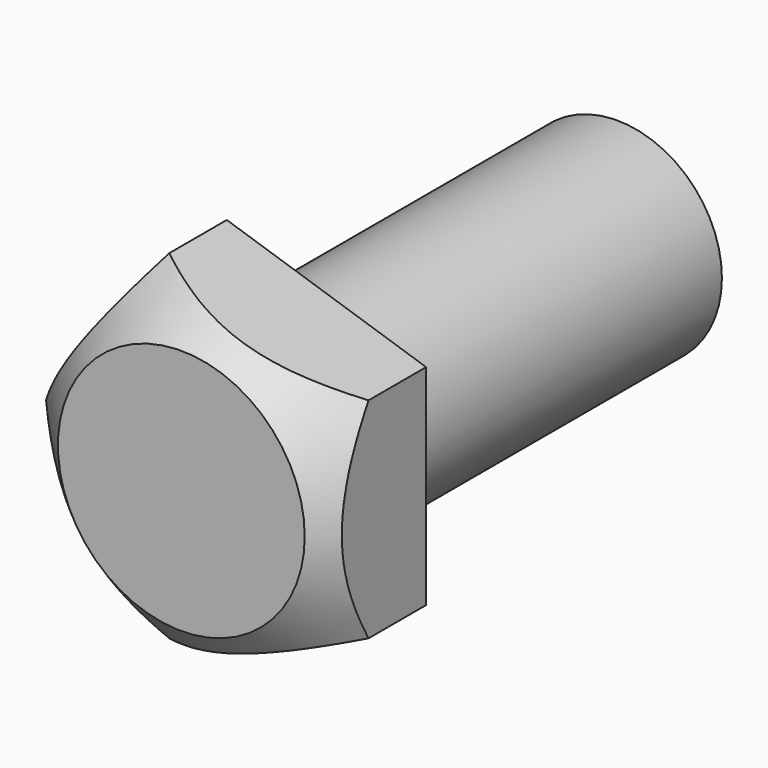
from build123d import *

# Parameters (mm, degrees)
F0_R     = 63.5
F1_DEPTH = 127
F3_DEPTH = 76.2


with BuildPart() as f1:
    # F0 (on Front) → F1 (new body, symmetric)
    with BuildSketch(Plane.XZ):
        Circle(F0_R)
    extrude(amount=F1_DEPTH, both=True)

    # F2 (on face) → F3 (join)
    with BuildSketch(Plane.XZ.offset(127)):
        Polygon((87.400252, -63.5), (87.400252, 63.5), (-33.383926, 102.745158), (-108.032653, 0), (-33.383926, -102.745158), align=None)
    extrude(amount=F3_DEPTH)

    # F4 (on Top) → F5 (revolve, cut)
    with BuildSketch(Plane.XY):
        Polygon((178.573892, -101.46219), (66.709772, -211.132884), (178.573892, -339.390486), align=None)
    revolve(axis=Axis((0, -117.441341, 0), (0, -1, 0)), mode=Mode.SUBTRACT)


solid = f1.part
